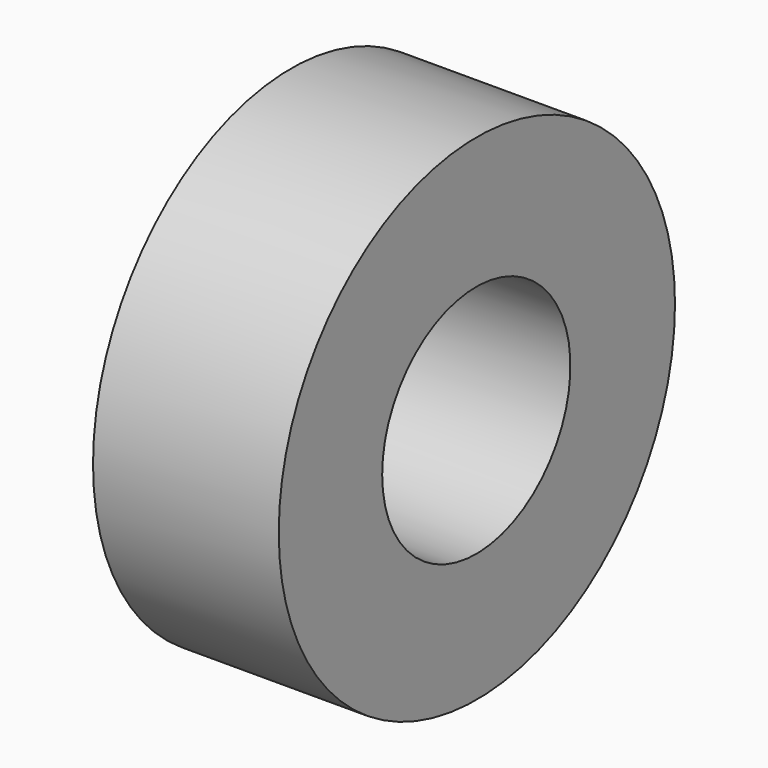
from build123d import *

# Parameters (mm, degrees)
SKETCH044_R      = 1.9
EXTRUDE045_DEPTH = 5
SKETCH037_R      = 1.85
EXTRUDE041_DEPTH = 15
SKETCH039_R      = 4
EXTRUDE037_DEPTH = 3


with BuildPart() as extrude045:
    # Sketch044 (on Face3 of Cut012) → Extrude045 (new body, symmetric)
    with BuildSketch(Plane(origin=(-5, 0, 0), x_dir=(0, -1, 0), z_dir=(-1, 0, 0))):
        with Locations((147.794998, 76.644844)):
            Circle(SKETCH044_R)
    extrude(amount=EXTRUDE045_DEPTH, both=True)


with BuildPart() as obj1:
    # Sketch037 (on Face9 of Fusion016) → Extrude041 (new body)
    with BuildSketch(Plane(origin=(-1.5, 0, 0), x_dir=(0, -1, 0), z_dir=(-1, 0, 0))):
        with Locations((54.826782, 76.655029)):
            Circle(SKETCH037_R)
    extrude(amount=EXTRUDE041_DEPTH)


with BuildPart() as obj1_1:
    # Extrude041 placement: moved
    add(obj1.part.moved(Location((12.3, -93, 0))))


with BuildPart() as gear_stopper:
    # Sketch039 → Extrude037 (new body)
    with BuildSketch(Plane(origin=(-2, -93, 0), x_dir=(0, -1, 0), z_dir=(-1, 0, 0))):
        with Locations((54.783142, 76.669052)):
            Circle(SKETCH039_R)
    extrude(amount=EXTRUDE037_DEPTH)

    # Cut012: cut obj1
    add(obj1_1.part, mode=Mode.SUBTRACT)

    # Cut014: cut Extrude045
    add(extrude045.part, mode=Mode.SUBTRACT)


solid = gear_stopper.part
